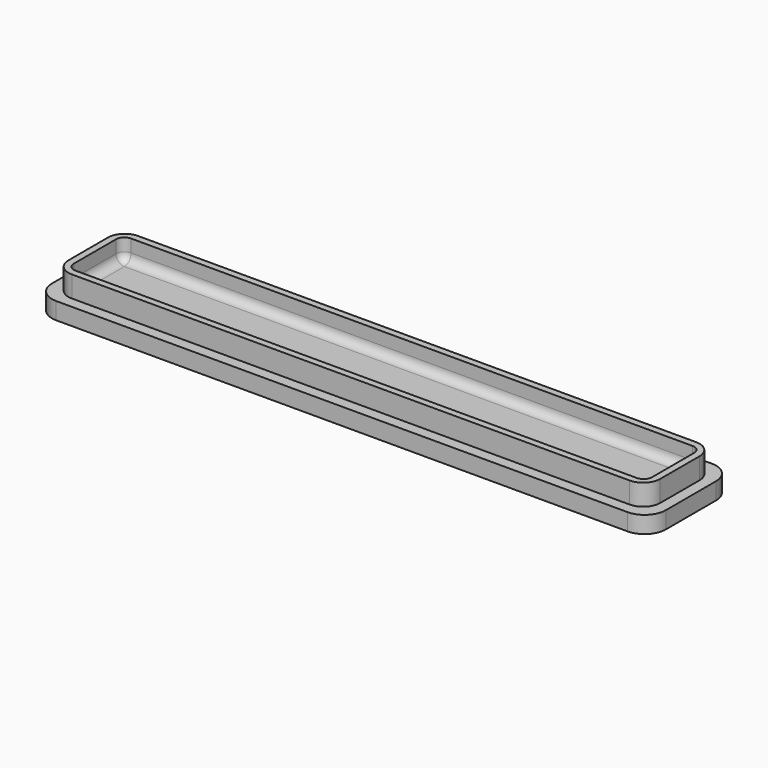
from build123d import *

# Parameters (mm, degrees)
F0_W     = 72.4
F0_H     = 12.4
F0_W_2   = 69.8
F0_H_2   = 9.8
F0_W_3   = 68.2
F0_H_3   = 8.2
F1_DEPTH = 2
F2_DEPTH = 2.5
F3_R     = 2.5
F4_R     = 2
F5_R     = 1
F6_R     = 1


with BuildPart() as f1:
    # F0 (on Top) → F1 (new body)
    with BuildSketch(Plane.XY):
        with Locations((19.4677342524, 8.0702581361)):
            Rectangle(F0_W, F0_H)
        with Locations((19.4677342524, 8.0702581361)):
            Rectangle(F0_W_2, F0_H_2, mode=Mode.SUBTRACT)
        with Locations((19.4677342524, 8.0702581361)):
            Rectangle(F0_W_2, F0_H_2)
        with Locations((19.4677342524, 8.0702581361)):
            Rectangle(F0_W_3, F0_H_3, mode=Mode.SUBTRACT)
        with Locations((19.4677342524, 8.0702581361)):
            Rectangle(F0_W_3, F0_H_3)
    extrude(amount=-F1_DEPTH)

    # F0 (on Top) → F2 (join)
    with BuildSketch(Plane.XY):
        with Locations((19.4677342524, 8.0702581361)):
            Rectangle(F0_W_2, F0_H_2)
        with Locations((19.4677342524, 8.0702581361)):
            Rectangle(F0_W_3, F0_H_3, mode=Mode.SUBTRACT)
    extrude(amount=F2_DEPTH)

    # F3
    f3_edges = [f1.edges().sort_by_distance(p)[0] for p in [
        (-16.732266, 14.270258, -1),
        (-16.732266, 1.870258, -1),
        (55.667734, 14.270258, -1),
        (55.667734, 1.870258, -1),
    ]]
    fillet(f3_edges, radius=F3_R)

    # F4
    f4_edges = [f1.edges().sort_by_distance(p)[0] for p in [
        (54.367734, 12.970258, 1.25),
        (54.367734, 3.170258, 1.25),
        (-15.432266, 12.970258, 1.25),
        (-15.432266, 3.170258, 1.25),
    ]]
    fillet(f4_edges, radius=F4_R)

    # F5
    f5_edges = [f1.edges().sort_by_distance(p)[0] for p in [
        (53.567734, 3.970258, 1.25),
        (53.567734, 12.170258, 1.25),
        (-14.632266, 3.970258, 1.25),
        (-14.632266, 12.170258, 1.25),
    ]]
    fillet(f5_edges, radius=F5_R)

    # F6
    f6_edges = [f1.edges().sort_by_distance(p)[0] for p in [
        (19.467734, 12.170258, 0),
        (53.567734, 8.070258, 0),
        (19.467734, 3.970258, 0),
        (-14.632266, 8.070258, 0),
    ]]
    fillet(f6_edges, radius=F6_R)


solid = f1.part
